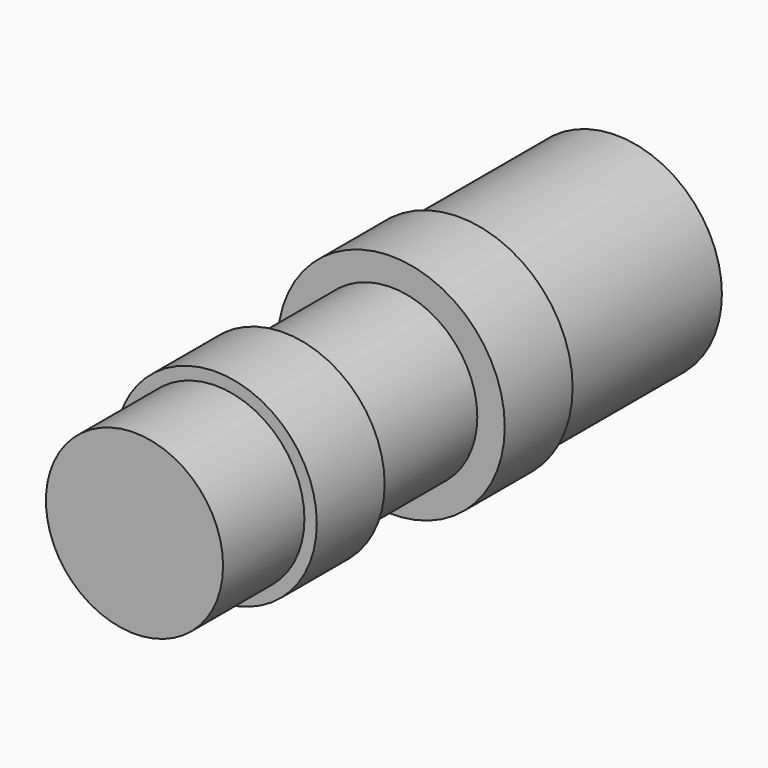
from build123d import *

# Parameters (mm, degrees)
F0_R      = 18.03
F1_DEPTH  = 20.701
F3_R      = 20.545
F4_DEPTH  = 17.272
F6_R      = 17.525
F7_DEPTH  = 27.35
F9_R      = 23.115
F10_DEPTH = 17.27
F12_R     = 21.5
F13_DEPTH = 40


with BuildPart() as f1:
    # F0 (on Front) → F1 (new body)
    with BuildSketch(Plane.XZ):
        Circle(F0_R)
    extrude(amount=-F1_DEPTH)

    # F3 (on offset) → F4 (join)
    with BuildSketch(Plane(origin=(0, 20.701, 0), x_dir=(1, 0, 0), z_dir=(0, 1, 0))):
        Circle(F3_R)
    extrude(amount=F4_DEPTH)

    # F6 (on offset) → F7 (join)
    with BuildSketch(Plane(origin=(0, 37.973, 0), x_dir=(1, 0, 0), z_dir=(0, 1, 0))):
        Circle(F6_R)
    extrude(amount=F7_DEPTH)

    # F9 (on offset) → F10 (join)
    with BuildSketch(Plane(origin=(0, 65.323, 0), x_dir=(1, 0, 0), z_dir=(0, 1, 0))):
        Circle(F9_R)
    extrude(amount=F10_DEPTH)

    # F12 (on offset) → F13 (join)
    with BuildSketch(Plane(origin=(0, 82.593, 0), x_dir=(1, 0, 0), z_dir=(0, 1, 0))):
        Circle(F12_R)
    extrude(amount=F13_DEPTH)


solid = f1.part
